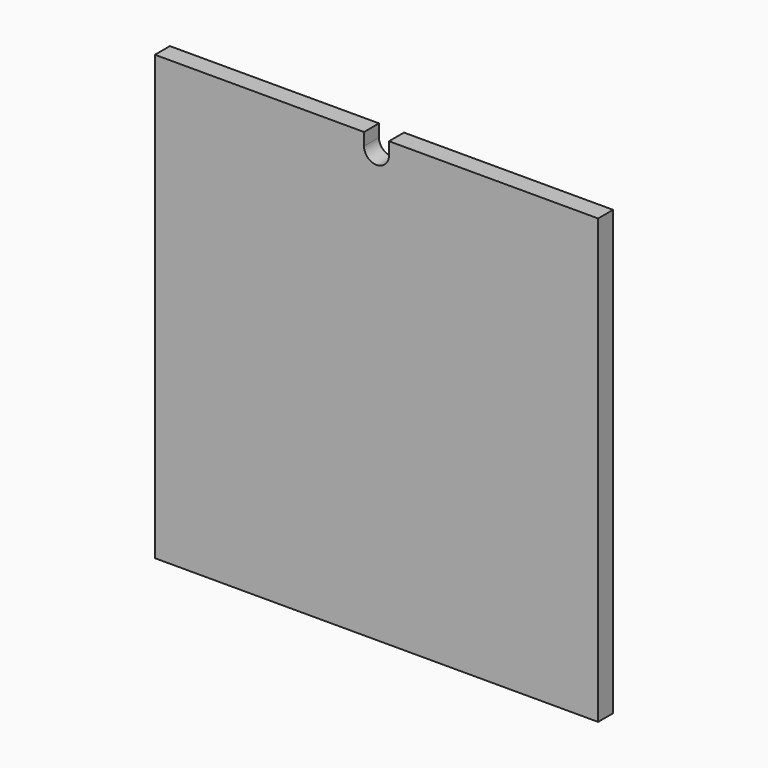
from build123d import *

# Parameters (mm, degrees)
F1_DEPTH = 19.05


with BuildPart() as f1:
    # F0 (on Front) → F1 (new body)
    with BuildSketch(Plane.XZ):
        with BuildLine():
            Line((225.425, -225.425), (225.425, 225.425))
            Line((225.425, 225.425), (12.7, 225.425))
            Line((12.7, 225.425), (12.7, 212.725))
            ThreePointArc((12.7, 212.725), (0, 200.025), (-12.7, 212.725))
            Line((-12.7, 212.725), (-12.7, 225.425))
            Line((-12.7, 225.425), (-225.425, 225.425))
            Line((-225.425, 225.425), (-225.425, -225.425))
            Line((-225.425, -225.425), (225.425, -225.425))
        make_face()
    extrude(amount=F1_DEPTH)


solid = f1.part
